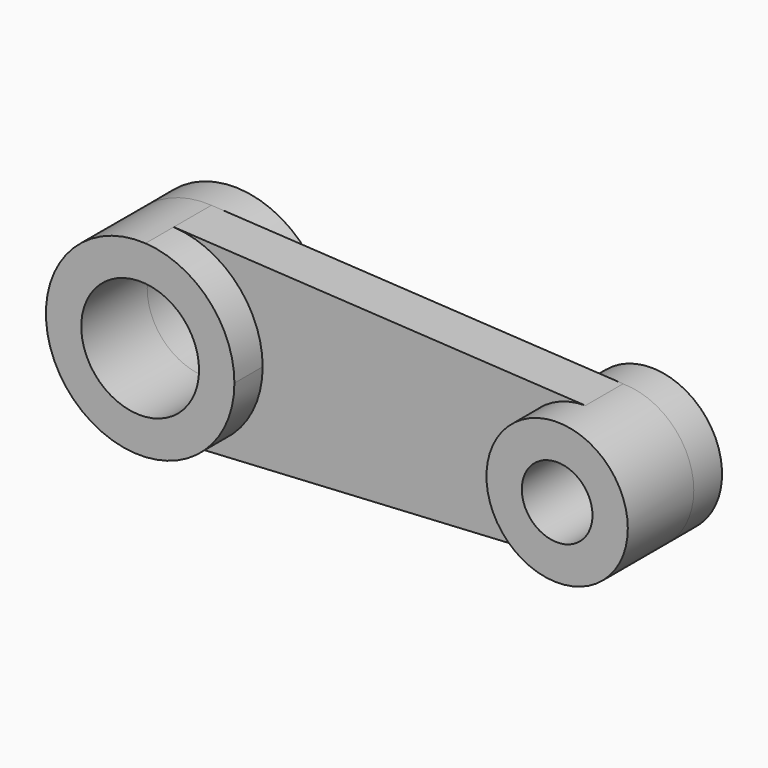
from build123d import *

# Parameters (mm, degrees)
F1_DEPTH = 20
F0_R     = 25
F0_R_2   = 30
F0_R_3   = 15
F2_DEPTH = 35
F3_R     = 30
F3_R_2   = 15
F4_DEPTH = 15
F5_R     = 40
F5_R_2   = 25
F6_DEPTH = 15


with BuildPart() as f1:
    # F0 (on Front) → F1 (new body)
    with BuildSketch(Plane.XZ):
        with BuildLine():
            ThreePointArc((-174.720421, 39.936096), (-147.908186, 27.473574), (-136.980557, 0))
            ThreePointArc((-136.980557, 0), (-147.908186, -27.473574), (-174.720421, -39.936096))
            Line((-174.720421, -39.936096), (0, -30.048004))
            ThreePointArc((0, -30.048004), (-30.048004, 0), (0, 30.048004))
            Line((0, 30.048004), (-174.720421, 39.936096))
        make_face()
    extrude(amount=F1_DEPTH)

    # F0 (on Front) → F2 (join)
    with BuildSketch(Plane.XZ):
        with BuildLine():
            ThreePointArc((-174.720421, -39.936096), (-147.908186, -27.473574), (-136.980557, 0))
            ThreePointArc((-136.980557, 0), (-147.908186, 27.473574), (-174.720421, 39.936096))
            ThreePointArc((-174.720421, 39.936096), (-216.980557, 0), (-174.720421, -39.936096))
        make_face()
        with Locations((-176.980557, 0)):
            Circle(F0_R, mode=Mode.SUBTRACT)
        Circle(F0_R_2)
        Circle(F0_R_3, mode=Mode.SUBTRACT)
    extrude(amount=F2_DEPTH)

    # F3 (on face) → F4 (join)
    with BuildSketch(Plane(origin=(0, 0, 0), x_dir=(-1, 0, 0), z_dir=(0, 1, 0))):
        Circle(F3_R)
        Circle(F3_R_2, mode=Mode.SUBTRACT)
    extrude(amount=F4_DEPTH)

    # F5 (on face) → F6 (join)
    with BuildSketch(Plane(origin=(0, 0, 0), x_dir=(-1, 0, 0), z_dir=(0, 1, 0))):
        with Locations((176.980557, 0)):
            Circle(F5_R)
        with Locations((176.980557, 0)):
            Circle(F5_R_2, mode=Mode.SUBTRACT)
    extrude(amount=F6_DEPTH)


solid = f1.part
